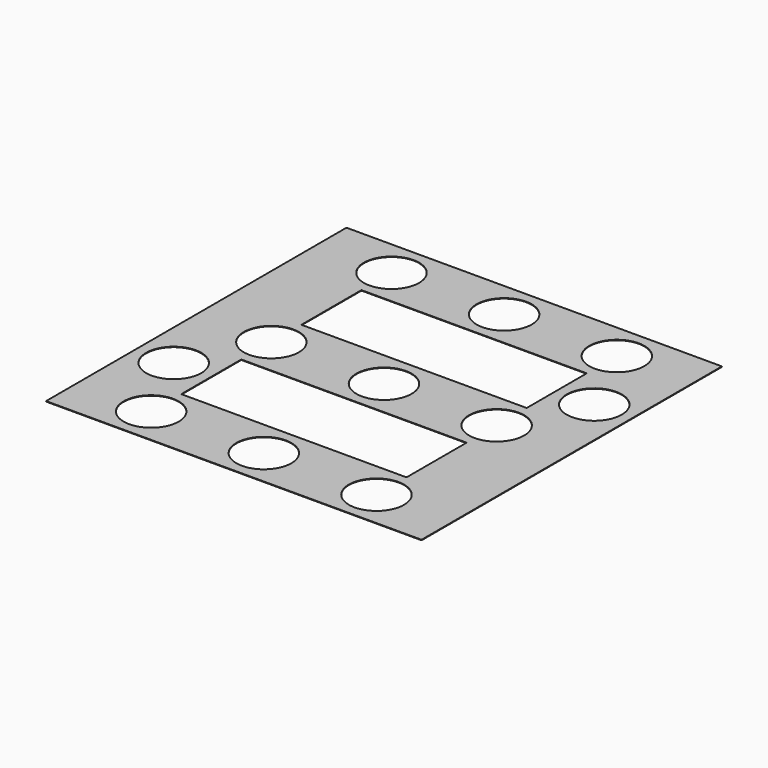
from build123d import *

# Parameters (mm, degrees)
F0_R     = 11
F0_W     = 30
F0_H     = 30
F1_DEPTH = 0.2


with BuildPart() as f1:
    # F0 (on Top) → F1 (new body)
    with BuildSketch(Plane.XY):
        Polygon((0, -150), (150, -150), (150, -120), (120, -120), (30, -120), (30, -90), (120, -90), (150, -90), (150, 0), (0, 0), (0, -30), (30, -30), (120, -30), (120, -60), (30, -60), (0, -60), align=None)
        with Locations((30, -135)):
            Circle(F0_R, mode=Mode.SUBTRACT)
        with Locations((15, -105)):
            Circle(F0_R, mode=Mode.SUBTRACT)
        with Locations((75, -135)):
            Circle(F0_R, mode=Mode.SUBTRACT)
        with Locations((120, -135)):
            Circle(F0_R, mode=Mode.SUBTRACT)
        with Locations((30, -75)):
            Circle(F0_R, mode=Mode.SUBTRACT)
        with Locations((30, -15)):
            Circle(F0_R, mode=Mode.SUBTRACT)
        with Locations((75, -75)):
            Circle(F0_R, mode=Mode.SUBTRACT)
        with Locations((120, -75)):
            Circle(F0_R, mode=Mode.SUBTRACT)
        with Locations((135, -45)):
            Circle(F0_R, mode=Mode.SUBTRACT)
        with Locations((75, -15)):
            Circle(F0_R, mode=Mode.SUBTRACT)
        with Locations((120, -15)):
            Circle(F0_R, mode=Mode.SUBTRACT)
        with Locations((15, -45)):
            Rectangle(F0_W, F0_H)
        with Locations((135, -105)):
            Rectangle(F0_W, F0_H)
    extrude(amount=F1_DEPTH)


solid = f1.part
